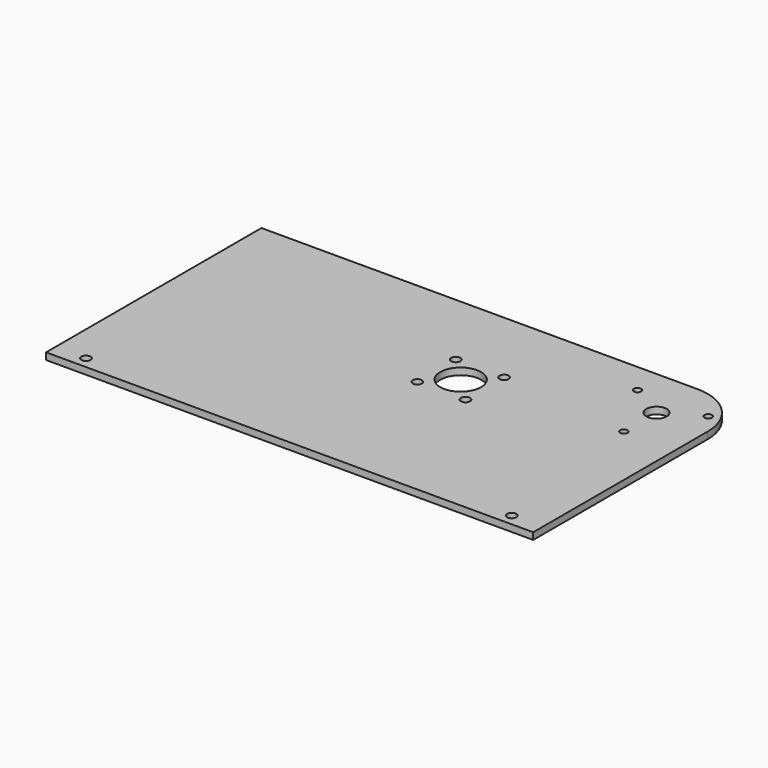
from build123d import *

# Parameters (mm, degrees)
F0_W     = 226.934583
F0_H     = 125.4125
F0_R     = 2.15265
F0_R_2   = 9.525
F0_R_3   = 1.7272
F0_R_4   = 4.7625
F1_DEPTH = 3.175
F2_R     = 23.8125


with BuildPart() as f1:
    # F0 (on Top) → F1 (new body)
    with BuildSketch(Plane.XY):
        with Locations((-113.467292, -62.70625)):
            Rectangle(F0_W, F0_H)
        with Locations((-212.647083, -120.015)):
            Circle(F0_R, mode=Mode.SUBTRACT)
        with Locations((-14.2875, -120.015)):
            Circle(F0_R, mode=Mode.SUBTRACT)
        with Locations((-106.960737, -59.198979)):
            Circle(F0_R, mode=Mode.SUBTRACT)
        with Locations((-95.735416, -47.973659)):
            Circle(F0_R_2, mode=Mode.SUBTRACT)
        with Locations((-84.510096, -59.198979)):
            Circle(F0_R, mode=Mode.SUBTRACT)
        with Locations((-106.960737, -36.748339)):
            Circle(F0_R, mode=Mode.SUBTRACT)
        with Locations((-84.510096, -36.748339)):
            Circle(F0_R, mode=Mode.SUBTRACT)
        with Locations((-23.8125, -42.8625)):
            Circle(F0_R_3, mode=Mode.SUBTRACT)
        with Locations((-23.8125, -23.8125)):
            Circle(F0_R_4, mode=Mode.SUBTRACT)
        with Locations((-40.310284, -14.2875)):
            Circle(F0_R_3, mode=Mode.SUBTRACT)
        with Locations((-7.314716, -14.2875)):
            Circle(F0_R_3, mode=Mode.SUBTRACT)
    extrude(amount=F1_DEPTH)

    # F2
    f2_edges = [f1.edges().sort_by_distance(p)[0] for p in [
        (0, 0, 1.5875),
    ]]
    fillet(f2_edges, radius=F2_R)


solid = f1.part
